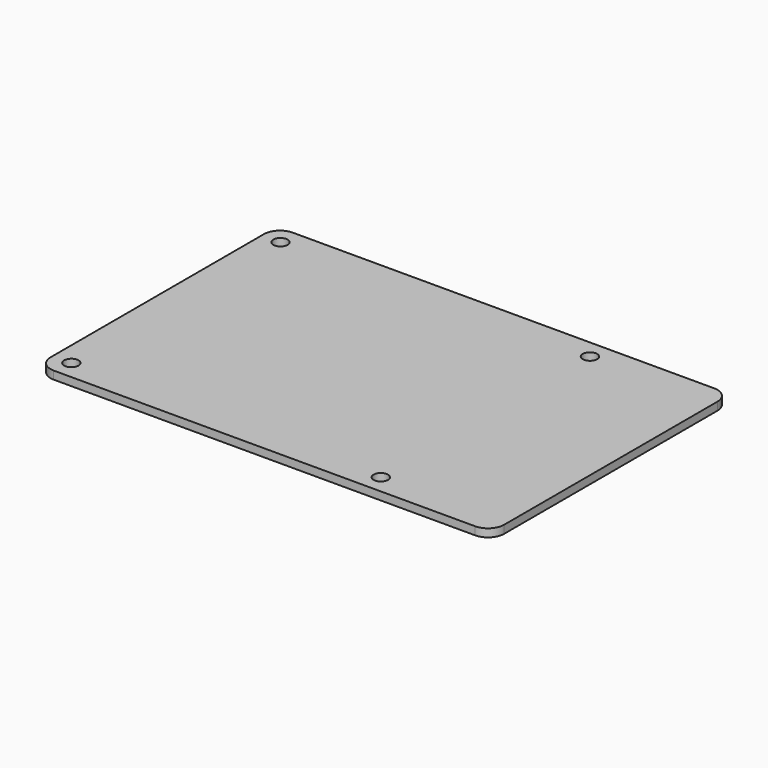
from build123d import *

# Parameters (mm, degrees)
CYLINDER_R     = 1.35
CYLINDER_DEPTH = 1.5
ARRAY_X_COUNT  = 2
ARRAY_X_PITCH  = 58
ARRAY_Y_COUNT  = 2
ARRAY_Y_PITCH  = 49
BOX_W          = 85
BOX_H          = 56
BOX_DEPTH      = 1.5
FILLET002_R    = 3


with BuildPart() as mounting_holes:
    # Cylinder → Cylinder (new body)
    with BuildSketch(Plane(origin=(3.5, 3.5, 0), x_dir=(1, 0, 0), z_dir=(0, 0, 1))):
        Circle(CYLINDER_R)
    extrude(amount=CYLINDER_DEPTH)

    # Array X: Mounting Holes ×2


with BuildPart() as mounting_holes_1:
    add(mounting_holes.part)
    with Locations(*[(i * ARRAY_X_PITCH, 0, 0) for i in range(1, ARRAY_X_COUNT)]):
        add(mounting_holes.part)

    # Array Y: Mounting Holes ×2


with BuildPart() as mounting_holes_2:
    add(mounting_holes_1.part)
    with Locations(*[(0, i * ARRAY_Y_PITCH, 0) for i in range(1, ARRAY_Y_COUNT)]):
        add(mounting_holes_1.part)


with BuildPart() as pcb:
    # Box → Box (new body)
    with BuildSketch(Plane.XY):
        with Locations((42.5, 28)):
            Rectangle(BOX_W, BOX_H)
    extrude(amount=BOX_DEPTH)

    # Fillet002
    fillet002_edges = [pcb.edges().sort_by_distance(p)[0] for p in [
        (0, 0, 0.75),
        (0, 56, 0.75),
        (85, 0, 0.75),
        (85, 56, 0.75),
    ]]
    fillet(fillet002_edges, radius=FILLET002_R)

    # Cut: cut Mounting Holes
    add(mounting_holes_2.part, mode=Mode.SUBTRACT)


solid = pcb.part
